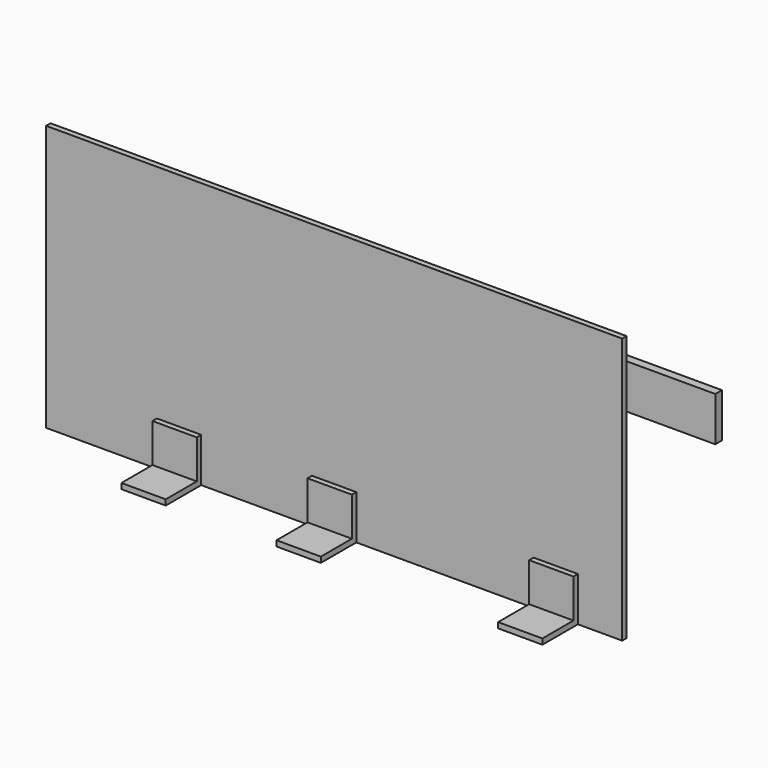
from build123d import *

# Parameters (mm, degrees)
F0_W     = 660.4
F0_H     = 304.8
F1_DEPTH = 6.35
F2_W     = 50.8
F2_H     = 50.8
F3_DEPTH = 6.35
F4_W     = 50.8
F4_H     = 6.35
F5_W     = 50.8
F5_H     = 6.35
F6_W     = 50.8
F6_H     = 6.35
F7_DEPTH = 44.45
F8_W     = 101.6
F8_H     = 50.8
F9_DEPTH = 9.525


with BuildPart() as f1:
    # F0 (on Front) → F1 (new body)
    with BuildSketch(Plane.XZ):
        Rectangle(F0_W, F0_H)
    extrude(amount=F1_DEPTH)

    # F2 (on face) → F3 (join)
    with BuildSketch(Plane.XZ.offset(6.35)):
        with Locations((254, -127)):
            Rectangle(F2_W, F2_H)
        with Locations((0, -127)):
            Rectangle(F2_W, F2_H)
        with Locations((-177.8, -127)):
            Rectangle(F2_W, F2_H)
    extrude(amount=F3_DEPTH)

    # F4 (on face) + F5 (on face) + F6 (on face) → F7 (join)
    with BuildSketch(Plane.XZ.offset(12.7)):
        with Locations((-177.8, -149.225)):
            Rectangle(F4_W, F4_H)
    with BuildSketch(Plane.XZ.offset(12.7)):
        with Locations((0, -149.225)):
            Rectangle(F5_W, F5_H)
    with BuildSketch(Plane.XZ.offset(12.7)):
        with Locations((254, -149.225)):
            Rectangle(F6_W, F6_H)
    extrude(amount=F7_DEPTH)

    # F8 (on face) → F9 (join)
    with BuildSketch(Plane(origin=(0, 0, 0), x_dir=(-1, 0, 0), z_dir=(0, 1, 0))):
        with Locations((-381, 101.6)):
            Rectangle(F8_W, F8_H)
        with Locations((-279.4, 101.6)):
            Rectangle(F8_W, F8_H)
    extrude(amount=F9_DEPTH)


solid = f1.part
